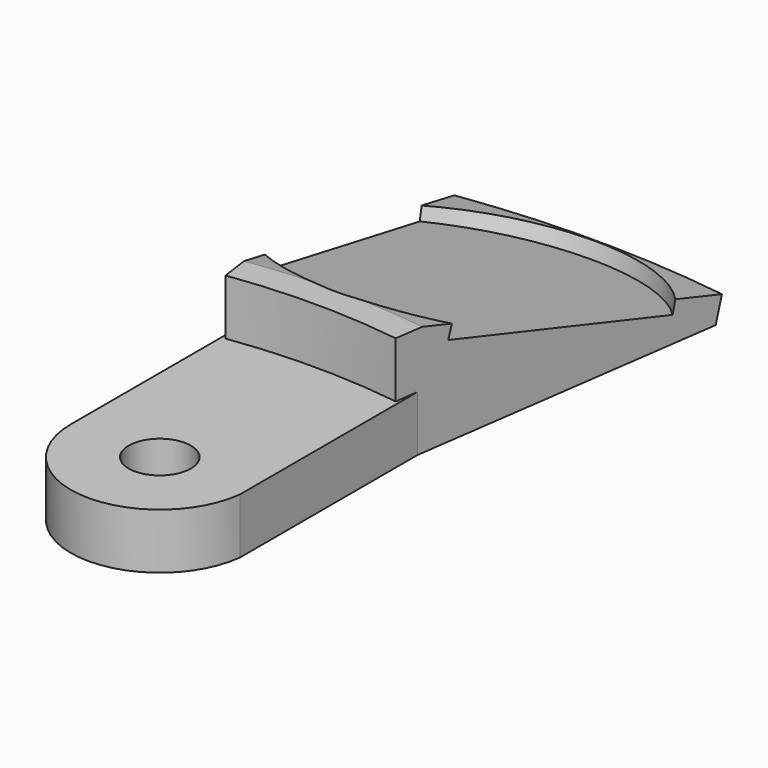
from build123d import *

# Parameters (mm, degrees)
F1_DEPTH      = 6.35
F3_ANGLE_BACK = 8
F3_ANGLE      = 16


with BuildPart() as f1:
    # F0 (on Top) → F1 (new body)
    with BuildSketch(Plane.XY):
        with BuildLine():
            ThreePointArc((-10.16, 69.1071407309), (-5.093560638, 69.664037638), (0, 69.85))
            ThreePointArc((0, 69.85), (5.0595865172, 69.6665133638), (10.0925913162, 69.1170174452))
            Line((10.0925913162, 69.1170174452), (10.0925913162, 88.1571407309))
            Line((10.0925913162, 88.1571407309), (-10.16, 88.1571407309))
            Line((-10.16, 88.1571407309), (-10.16, 69.1071407309))
        make_face()
        with BuildLine():
            ThreePointArc((10.0925913162, 69.1170174452), (5.0595865172, 69.6665133638), (0, 69.85))
            ThreePointArc((0, 69.85), (-5.093560638, 69.664037638), (-10.16, 69.1071407309))
            Line((-10.16, 69.1071407309), (-10.16, 47.625))
            ThreePointArc((-10.16, 47.625), (-0.5851804113, 37.4818661704), (10.0925913162, 46.456582042))
            Line((10.0925913162, 46.456582042), (10.0925913162, 69.1071407309))
            Line((10.0925913162, 69.1071407309), (10.0925913162, 69.1170174452))
        make_face()
        with BuildLine():
            ThreePointArc((3.556, 47.625), (-2.5144717139, 45.1105282861), (0, 51.181))
            ThreePointArc((0, 51.181), (2.5144717139, 50.1394717139), (3.556, 47.625))
        make_face(mode=Mode.SUBTRACT)
    extrude(amount=F1_DEPTH)

    # F2 (on Right) → F3 (revolve)
    with BuildSketch(Plane.YZ, mode=Mode.PRIVATE) as f3_sk:
        Polygon((69.85, 6.35), (69.85, 0), (109.1197147274, 0), (109.8804209793, 2.8389943816), (73.0786469976, 12.7), (69.85, 12.7), align=None)
    revolve(f3_sk.sketch.rotate(Axis((0, 0, 0), (0, 0, 1)), -F3_ANGLE_BACK), axis=Axis((0, 0, 0), (0, 0, 1)), revolution_arc=F3_ANGLE)

    # F4 (on Right) → F5 (revolve, cut)
    with BuildSketch(Plane.YZ):
        Polygon((91.6529184641, 9.2004434954), (90.8311679959, 6.1336289969), (109.2320549867, 1.2031261877), (110.0538054549, 4.2699406862), align=None)
    revolve(axis=Axis((0, 91.24204323, 7.6670362462), (0, 0.2588190451, 0.9659258263)), mode=Mode.SUBTRACT)


solid = f1.part
